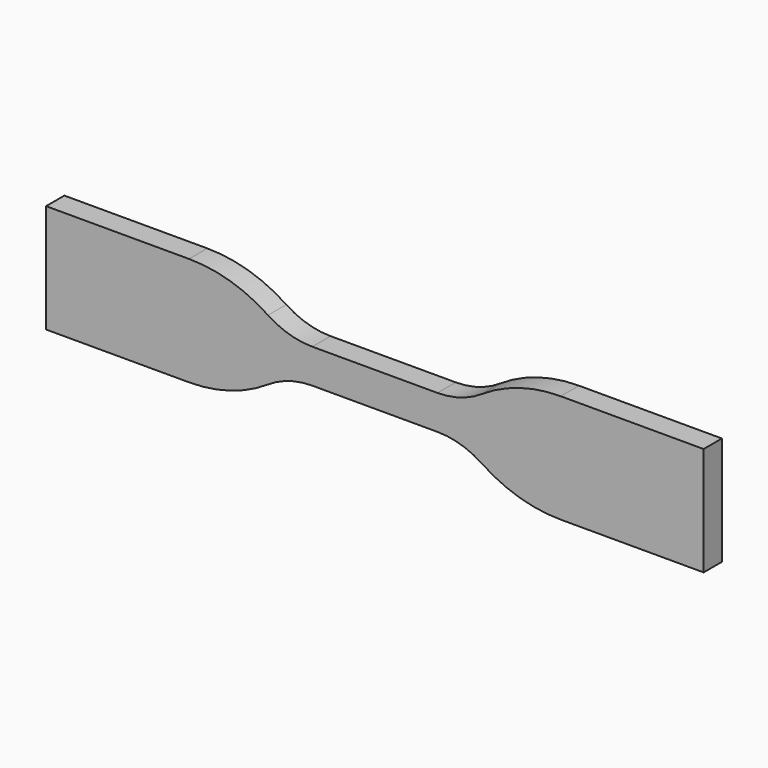
from build123d import *

# Parameters (mm, degrees)
F1_DEPTH = 2


with BuildPart() as f1:
    # F0 (on Front) → F1 (new body, symmetric)
    with BuildSketch(Plane.XZ):
        with BuildLine():
            Line((10.941939, 3), (0, 3))
            Line((0, 3), (-10.941939, 3))
            ThreePointArc((-10.941939, 3), (-14.983391, 3.59602), (-18.68073, 5.333333))
            ThreePointArc((-18.68073, 5.333333), (-25.283122, 8.435678), (-32.5, 9.5))
            Line((-32.5, 9.5), (-57.5, 9.5))
            Line((-57.5, 9.5), (-57.5, 0))
            Line((-57.5, 0), (-57.5, -9.5))
            Line((-57.5, -9.5), (-32.5, -9.5))
            ThreePointArc((-32.5, -9.5), (-25.283122, -8.435678), (-18.68073, -5.333333))
            ThreePointArc((-18.68073, -5.333333), (-14.983391, -3.59602), (-10.941939, -3))
            Line((-10.941939, -3), (0, -3))
            Line((0, -3), (10.941939, -3))
            ThreePointArc((10.941939, -3), (14.983391, -3.59602), (18.68073, -5.333333))
            ThreePointArc((18.68073, -5.333333), (25.283122, -8.435678), (32.5, -9.5))
            Line((32.5, -9.5), (57.5, -9.5))
            Line((57.5, -9.5), (57.5, 0))
            Line((57.5, 0), (57.5, 9.5))
            Line((57.5, 9.5), (32.5, 9.5))
            ThreePointArc((32.5, 9.5), (25.283122, 8.435678), (18.68073, 5.333333))
            ThreePointArc((18.68073, 5.333333), (14.983391, 3.59602), (10.941939, 3))
        make_face()
    extrude(amount=F1_DEPTH, both=True)


solid = f1.part
